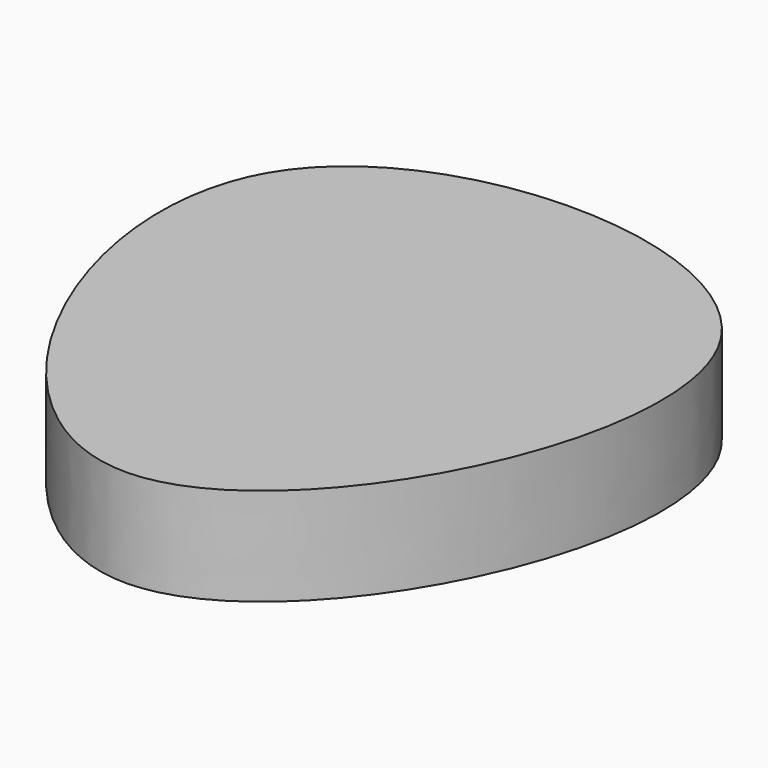
from build123d import *

# Parameters (mm, degrees)
F1_DEPTH = 10


with BuildPart() as f1:
    # F0 (on Top) → F1 (new body)
    with BuildSketch(Plane.XY):
        with BuildLine():
            add(Edge.make_bspline(
                [(-23.9374190569, 19.5652879775), (-15.6503728578, 33.966823092), (46.6906954982, 33.1484855451), (-0.6574615779, -59.7366840477), (-32.755037329, 4.2417051083), (-23.9374190569, 19.5652879775)],
                knots=[0, 0, 0, 0, 0.3202941357, 0.6591992665, 1, 1, 1, 1], degree=3))
        make_face()
    extrude(amount=F1_DEPTH)


solid = f1.part
